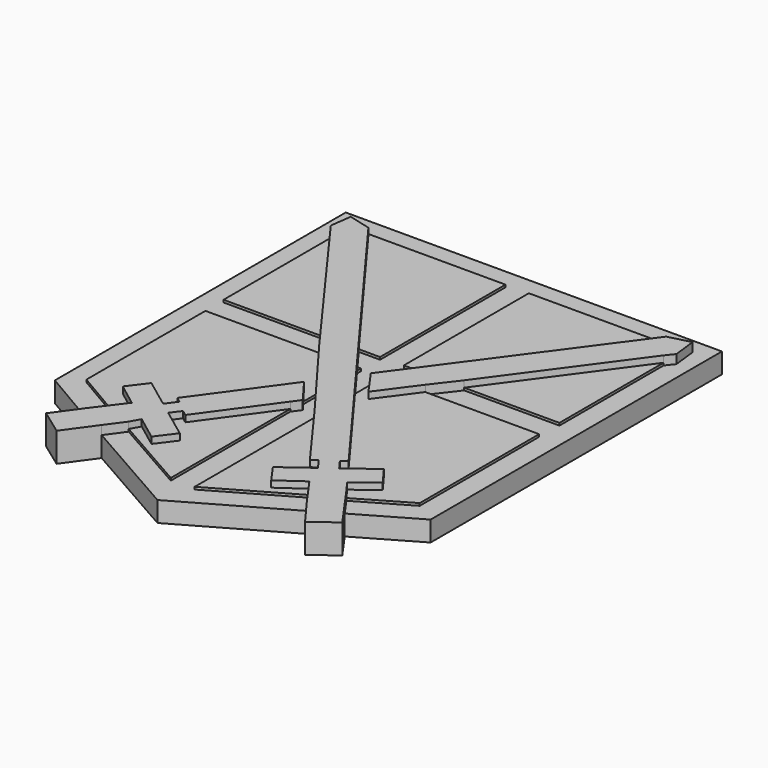
from build123d import *

# Parameters (mm, degrees)
F1_DEPTH = 3.175
F2_DEPTH = 3.556
F3_DEPTH = 4.572


with BuildPart() as f1:
    # F0 (on Top) → F1 (new body)
    with BuildSketch(Plane.XY):
        Polygon((29.584756, -27.221298), (29.584756, 29.950785), (-29.479176, 29.950785), (-29.479176, -27.133208), (-20.187605, -32.577209), (-18.115064, -29.82695), (-26.13285, -25.125414), (-26.13285, -1.771603), (-8.274053, -1.771603), (-10.968982, 1.924094), (-26.244469, 1.924094), (-26.244469, 22.872174), (-27.065488, 23.99808), (-26.617657, 27.35679), (-23.955185, 26.654534), (-1.763201, 26.654534), (-1.763201, 2.035509), (-5.107893, 2.035509), (-2.284221, -1.79245), (-1.695176, -1.79245), (-1.695176, -2.590998), (1.940586, -7.519879), (1.940586, -4.51461), (1.271773, -3.568046), (1.844743, -2.787714), (1.844743, -1.740088), (2.613979, -1.740088), (5.450021, 2.12233), (1.905811, 2.12233), (1.905811, 26.654534), (23.463178, 26.654534), (26.915174, 27.535146), (27.337868, 23.836579), (26.333792, 22.568498), (26.333792, 2.12233), (11.372437, 2.12233), (8.380165, -1.767622), (26.267296, -1.767622), (26.267296, -25.207078), (18.405024, -29.78093), (20.359609, -32.547235), align=None)
        Polygon((0.193236, -44.088848), (16.308353, -34.903318), (14.276092, -32.027078), (2.017258, -39.071266), (2.017258, -15.528801), (-1.719974, -10.532952), (-1.719974, -13.10648), (-0.813696, -14.317972), (-1.741275, -15.597965), (-1.741275, -39.05713), (-13.898811, -32.127094), (-15.92117, -34.903318), align=None)
    extrude(amount=F1_DEPTH)


with BuildPart() as f2:
    # F0 (on Top) → F2 (new body)
    with BuildSketch(Plane.XY):
        Polygon((-26.13285, -25.125414), (-18.115064, -29.82695), (-16.722383, -27.984094), (-20.297247, -25.282502), (-18.115064, -22.394942), (-13.561768, -25.791711), (-12.332034, -24.094766), (-13.161543, -23.493641), (-3.708189, -10.448678), (-1.719974, -13.10648), (-1.719974, -10.532952), (-8.274053, -1.771603), (-26.13285, -1.771603), align=None)
        Polygon((-26.244469, 1.924094), (-10.968982, 1.924094), (-26.244469, 22.872174), align=None)
        Polygon((-23.101978, 26.429491), (-5.107893, 2.035509), (-1.763201, 2.035509), (-1.763201, 26.654534), (-23.955185, 26.654534), align=None)
        Polygon((5.450021, 2.12233), (23.463178, 26.654534), (1.905811, 26.654534), (1.905811, 2.12233), align=None)
        Polygon((26.333792, 22.568498), (11.372437, 2.12233), (26.333792, 2.12233), align=None)
        Polygon((17.098792, -27.999705), (18.405024, -29.78093), (26.267296, -25.207078), (26.267296, -1.767622), (8.380165, -1.767622), (4.100637, -7.571709), (1.940586, -4.51461), (1.940586, -7.519879), (13.736651, -23.511412), (12.871007, -24.14995), (14.000933, -25.681754), (18.411774, -22.428121), (20.530085, -25.299845), align=None)
        Polygon((2.017258, -39.071266), (14.276092, -32.027078), (13.324407, -30.680168), (9.488657, -33.39039), (7.45414, -30.510959), (11.905632, -27.227341), (10.674255, -25.540933), (9.79609, -26.182149), (2.017258, -15.528801), align=None)
        Polygon((-13.046298, -30.631508), (-13.898811, -32.127094), (-1.741275, -39.05713), (-1.741275, -15.597965), (-9.570268, -26.419501), (-10.448425, -25.764394), (-11.574665, -27.274094), (-7.074124, -30.631508), (-9.228042, -33.499297), align=None)
        Polygon((1.844743, -1.740088), (1.844743, -2.787714), (2.613979, -1.740088), align=None)
        Polygon((-2.284221, -1.79245), (-1.695176, -2.590998), (-1.695176, -1.79245), align=None)
    extrude(amount=F2_DEPTH)


with BuildPart() as f3:
    # F0 (on Top) → F3 (new body)
    with BuildSketch(Plane.XY):
        Polygon((11.905632, -27.227341), (14.000933, -25.681754), (12.871007, -24.14995), (13.736651, -23.511412), (1.940586, -7.519879), (-1.695176, -2.590998), (-2.284221, -1.79245), (-5.107893, 2.035509), (-23.101978, 26.429491), (-23.955185, 26.654534), (-26.617657, 27.35679), (-27.065488, 23.99808), (-26.244469, 22.872174), (-10.968982, 1.924094), (-8.274053, -1.771603), (-1.719974, -10.532952), (2.017258, -15.528801), (9.79609, -26.182149), (10.674255, -25.540933), align=None)
        Polygon((4.100637, -7.571709), (8.380165, -1.767622), (11.372437, 2.12233), (26.333792, 22.568498), (27.337868, 23.836579), (26.915174, 27.535146), (23.463178, 26.654534), (5.450021, 2.12233), (2.613979, -1.740088), (1.844743, -2.787714), (1.271773, -3.568046), (1.940586, -4.51461), align=None)
        Polygon((-12.332034, -24.094766), (-13.561768, -25.791711), (-11.574665, -27.274094), (-10.448425, -25.764394), (-9.570268, -26.419501), (-1.741275, -15.597965), (-0.813696, -14.317972), (-1.719974, -13.10648), (-3.708189, -10.448678), (-13.161543, -23.493641), align=None)
        Polygon((-18.115064, -29.82695), (-20.187605, -32.577209), (-23.187716, -36.72465), (-19.282227, -39.549742), (-15.92117, -34.903318), (-13.898811, -32.127094), (-13.046298, -30.631508), (-9.228042, -33.499297), (-7.074124, -30.631508), (-11.574665, -27.274094), (-13.561768, -25.791711), (-18.115064, -22.394942), (-20.297247, -25.282502), (-16.722383, -27.984094), align=None)
        Polygon((23.281733, -36.682889), (20.359609, -32.547235), (18.405024, -29.78093), (17.098792, -27.999705), (20.530085, -25.299845), (18.411774, -22.428121), (14.000933, -25.681754), (11.905632, -27.227341), (7.45414, -30.510959), (9.488657, -33.39039), (13.324407, -30.680168), (14.276092, -32.027078), (16.308353, -34.903318), (19.599766, -39.386235), align=None)
    extrude(amount=F3_DEPTH)


solid = Compound([f1.part, f2.part, f3.part])
